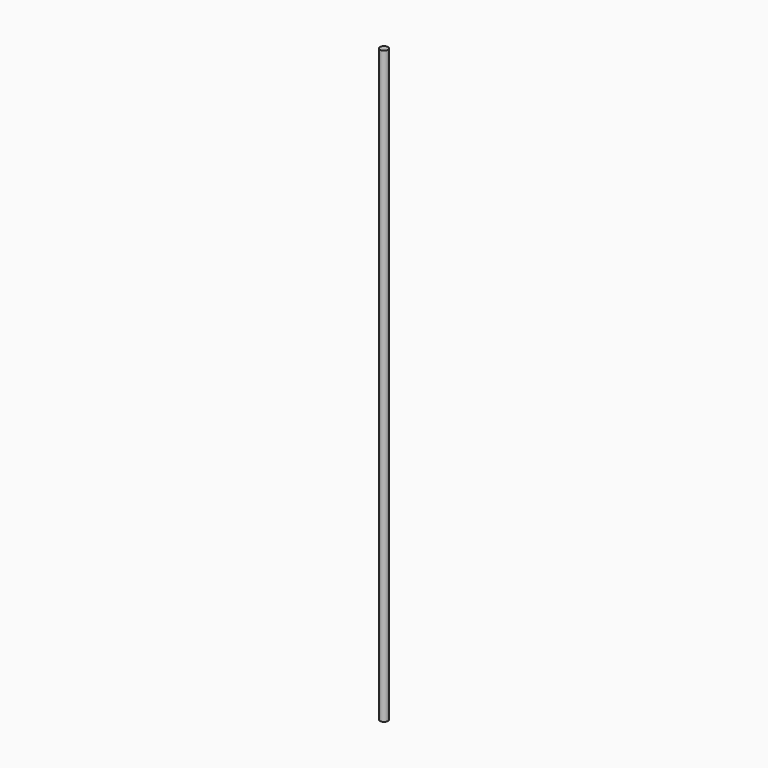
from build123d import *

# Parameters (mm, degrees)
CYLINDER_R     = 4
CYLINDER_DEPTH = 600


with BuildPart() as part:
    # Cylinder → Cylinder (new body)
    with BuildSketch(Plane.XY):
        Circle(CYLINDER_R)
    extrude(amount=CYLINDER_DEPTH)


solid = part.part
